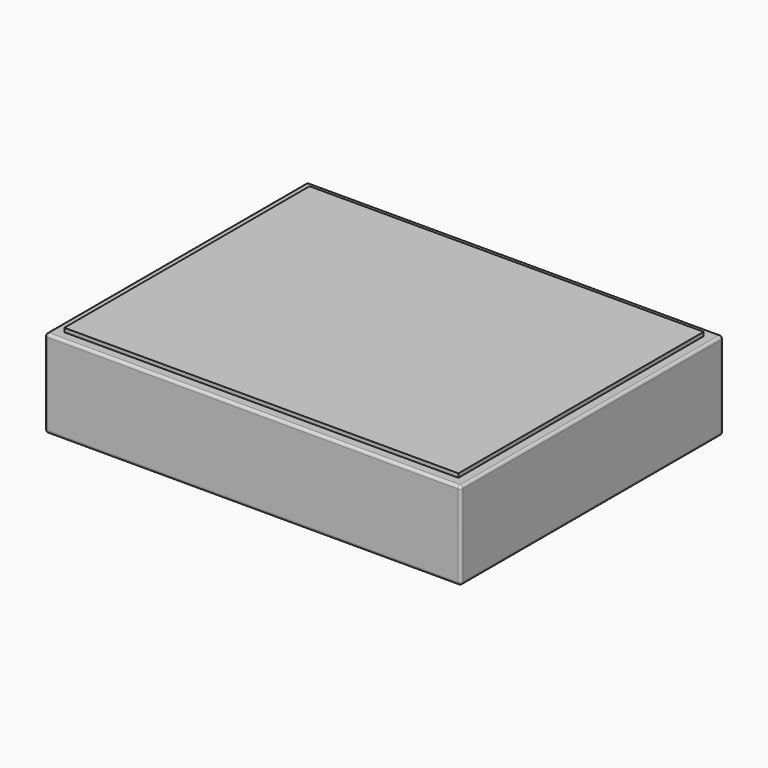
from build123d import *

# Parameters (mm, degrees)
F0_W      = 241.3
F0_H      = 50.8
F1_DEPTH  = 190.5
F2_W      = 203.2
F2_H      = 152.4
F3_DEPTH  = 50.8
F4_W      = 228.6
F4_H      = 177.8
F4_W_2    = 203.2
F4_H_2    = 152.4
F5_DEPTH  = 6.35
F6_W      = 228.6
F6_H      = 177.8
F6_W_2    = 203.2
F6_H_2    = 152.4
F7_DEPTH  = 6.35
F8_R      = 1.5875
F9_W      = 228.6
F9_H      = 177.8
F10_DEPTH = 8.636


with BuildPart() as f1:
    # F0 (on Front) → F1 (new body)
    with BuildSketch(Plane.XZ):
        with Locations((120.65, 25.4)):
            Rectangle(F0_W, F0_H)
    extrude(amount=-F1_DEPTH)

    # F2 (on face) → F3 (cut, through all)
    with BuildSketch(Plane.XY.offset(50.8)):
        with Locations((120.65, 95.25)):
            Rectangle(F2_W, F2_H)
    extrude(amount=-F3_DEPTH, mode=Mode.SUBTRACT)

    # F4 (on face) → F5 (cut)
    with BuildSketch(Plane.XY.offset(50.8)):
        with Locations((120.65, 95.25)):
            Rectangle(F4_W, F4_H)
        with Locations((120.65, 95.25)):
            Rectangle(F4_W_2, F4_H_2, mode=Mode.SUBTRACT)
    extrude(amount=-F5_DEPTH, mode=Mode.SUBTRACT)

    # F6 (on face) → F7 (cut)
    with BuildSketch(Plane(origin=(0, 0, 0), x_dir=(1, 0, 0), z_dir=(0, 0, -1))):
        with Locations((120.65, -95.25)):
            Rectangle(F6_W, F6_H)
        with Locations((120.65, -95.25)):
            Rectangle(F6_W_2, F6_H_2, mode=Mode.SUBTRACT)
    extrude(amount=-F7_DEPTH, mode=Mode.SUBTRACT)

    # F8
    f8_edges = [f1.edges().sort_by_distance(p)[0] for p in [
        (120.65, 0, 50.8),
        (0, 0, 25.4),
        (0, 95.25, 50.8),
        (241.3, 0, 25.4),
        (241.3, 95.25, 50.8),
        (120.65, 190.5, 50.8),
        (241.3, 190.5, 25.4),
        (0, 190.5, 25.4),
        (120.65, 190.5, 0),
        (0, 95.25, 0),
        (120.65, 0, 0),
        (241.3, 95.25, 0),
    ]]
    fillet(f8_edges, radius=F8_R)


with BuildPart() as f10:
    # F9 (on face) → F10 (new body)
    with BuildSketch(Plane.XY.offset(44.45)):
        with Locations((120.65, 95.25)):
            Rectangle(F9_W, F9_H)
    extrude(amount=F10_DEPTH)


solid = Compound([f1.part, f10.part])
